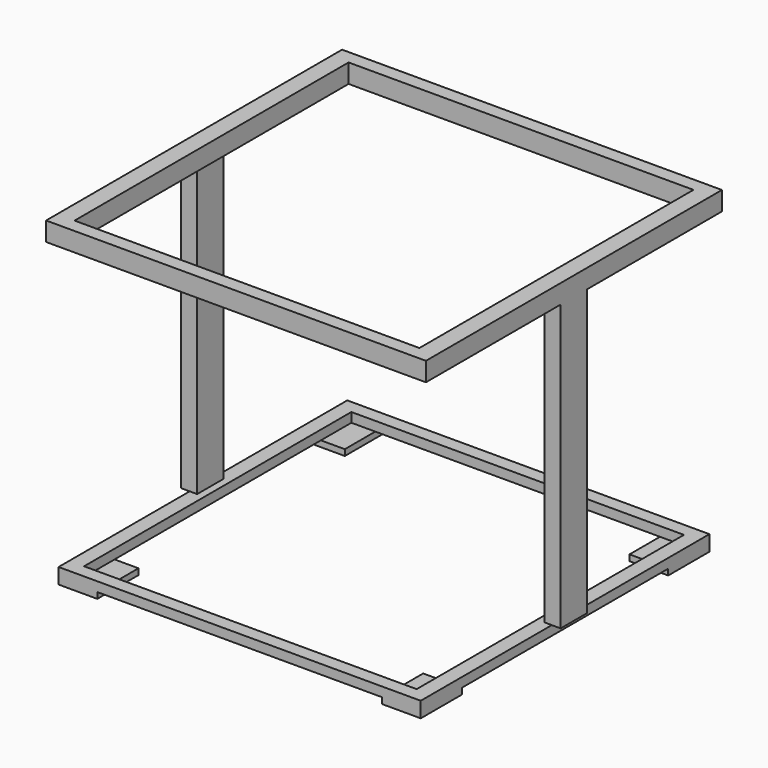
from build123d import *

# Parameters (mm, degrees)
F0_W      = 112.0901331306
F0_H      = 109.1817319393
F1_DEPTH  = 5.588
F2_W      = 101.775161922
F2_H      = 101.0821834207
F3_DEPTH  = 25.4
F4_W      = 4.89441026
F4_H      = 84.1260254383
F5_DEPTH  = 4.826
F7_W      = 106.8618372083
F7_H      = 106.4788401127
F8_DEPTH  = 2.794
F9_W      = 98.1444716454
F9_H      = 98.5935106874
F10_DEPTH = 25.4
F11_W     = 7.0638842881
F11_H     = 11.2456418574
F12_DEPTH = 1.778
F15_W     = 112.0901331306
F15_H     = 109.1817319393
F15_W_2   = 101.775161922
F15_H_2   = 101.0821834207
F16_DEPTH = 1.016


with BuildPart() as f1:
    # F0 (on Top) → F1 (new body)
    with BuildSketch(Plane.XY):
        Rectangle(F0_W, F0_H)
    extrude(amount=F1_DEPTH)

    # F2 (on face) → F3 (cut)
    with BuildSketch(Plane.XY.offset(5.588)):
        Rectangle(F2_W, F2_H)
    extrude(amount=-F3_DEPTH, mode=Mode.SUBTRACT)

    # F4 (on face) → F5 (join)
    with BuildSketch(Plane.YZ.offset(56.0450665653)):
        with Locations((2.44720513, -42.0630127192)):
            Rectangle(F4_W, F4_H)
    extrude(amount=-F5_DEPTH)

    # F6: F1 across plane


with BuildPart() as f1_1:
    add(f1.part)
    add(f1.part.mirror(Plane.YZ))

    # F7 (on face) → F8 (join)
    with BuildSketch(Plane(origin=(0, 0, -84.1260254383), x_dir=(1, 0, 0), z_dir=(0, 0, -1))):
        Rectangle(F7_W, F7_H)
    extrude(amount=F8_DEPTH)

    # F9 (on face) → F10 (cut)
    with BuildSketch(Plane(origin=(0, 0, -86.9200254383), x_dir=(1, 0, 0), z_dir=(0, 0, -1))):
        Rectangle(F9_W, F9_H)
    extrude(amount=-F10_DEPTH, mode=Mode.SUBTRACT)

    # F11 (on face) → F12 (join)
    with BuildSketch(Plane(origin=(0, 0, -86.9200254383), x_dir=(1, 0, 0), z_dir=(0, 0, -1))):
        Polygon((-53.4309186041, -38.0511134863), (-53.4309186041, -53.2394200563), (-42.0083515346, -53.2394200563), (-42.0083515346, -49.2967553437), (-49.0722358227, -49.2967553437), (-49.0722358227, -38.0511134863), align=None)
        with Locations((-45.5402936786, -43.673934415)):
            Rectangle(F11_W, F11_H)
    extrude(amount=F12_DEPTH)

    # F13: F1 across plane


with BuildPart() as f1_2:
    add(f1_1.part)
    add(f1_1.part.mirror(Plane.XZ))

    # F14: F1 across plane


with BuildPart() as f1_3:
    add(f1_2.part)
    add(f1_2.part.mirror(Plane.YZ))

    # F15 (on face) → F16 (join)
    with BuildSketch(Plane.XY.offset(5.588)):
        Rectangle(F15_W, F15_H)
        Rectangle(F15_W_2, F15_H_2, mode=Mode.SUBTRACT)
    extrude(amount=-F16_DEPTH)


solid = f1_3.part
